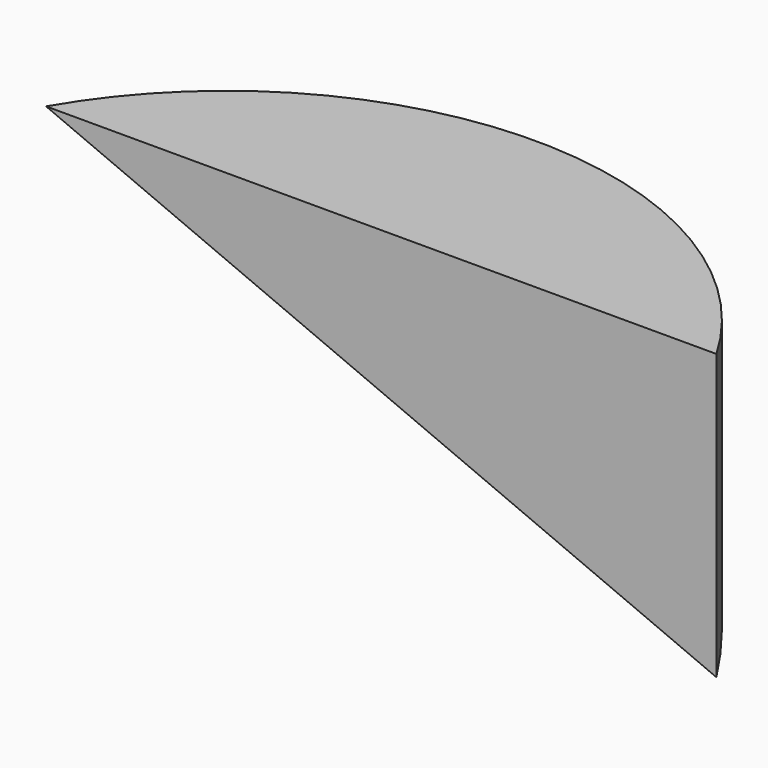
from build123d import *

# Parameters (mm, degrees)
F1_DEPTH = 242.6716
F3_DEPTH = 508


with BuildPart() as f1:
    # F0 (on Top) → F1 (new body)
    with BuildSketch(Plane.XY):
        with BuildLine():
            ThreePointArc((285.75, 0), (0, 164.734059), (-285.75, 0))
            Line((-285.75, 0), (285.75, 0))
        make_face()
    extrude(amount=F1_DEPTH)

    # F2 (on face) → F3 (cut)
    with BuildSketch(Plane.XZ):
        Polygon((285.75, 0), (-285.75, 242.6716), (-285.75, 0), align=None)
    extrude(amount=-F3_DEPTH, mode=Mode.SUBTRACT)


solid = f1.part
